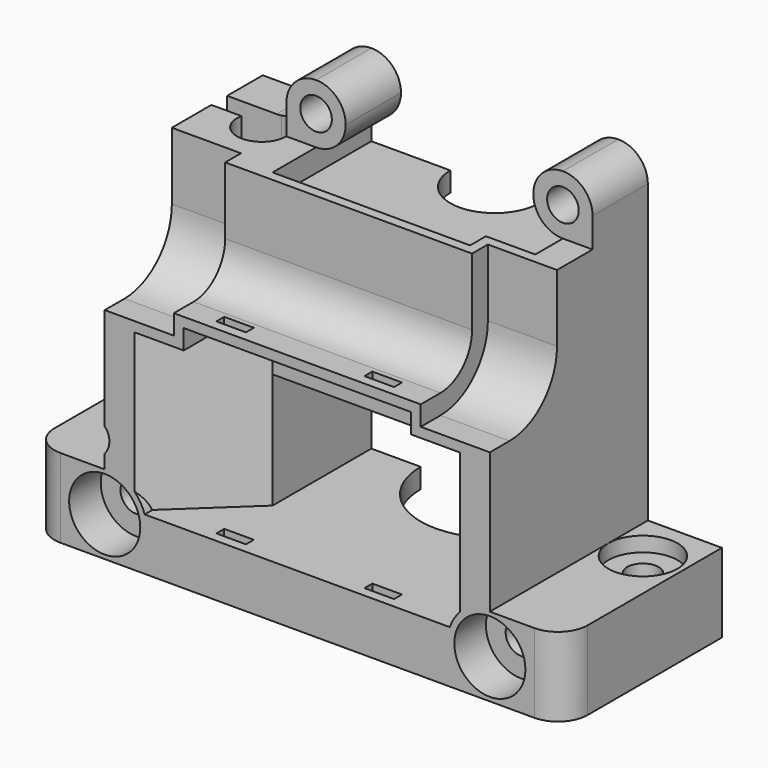
from build123d import *

# Parameters (mm, degrees)
BOX004_W                    = 3
BOX004_H                    = 1
BOX004_DEPTH                = 20
BOX003_W                    = 3
BOX003_H                    = 1
BOX003_DEPTH                = 20
CYLINDER005_R               = 1.6
CYLINDER005_DEPTH           = 20
CYLINDER007_R               = 2.5
CYLINDER007_DEPTH           = 40
PAD010_DEPTH                = 12.5
PAD010_DEPTH_BACK           = 12.5
PAD011_DEPTH                = 7
PAD009_DEPTH                = 7
CYLINDER009_R               = 2
CYLINDER009_DEPTH           = 40
CYLINDER009_ROLL_ANGLE      = 150
CYLINDER009_PITCH_ANGLE     = 80
CYLINDER009_PLACEMENT_ANGLE = -90
BOX002_W                    = 10
BOX002_H                    = 2
BOX002_DEPTH                = 40
BOX001_W                    = 5.5
BOX001_H                    = 40
BOX001_DEPTH                = 2
BOX001_ROLL_ANGLE           = -5.850586
BOX001_PITCH_ANGLE          = -4.812098
BOX001_PLACEMENT_ANGLE      = 31.614697
FILLET002_R                 = 3
CYLINDER010_R               = 3.6
CYLINDER010_DEPTH           = 4
CYLINDER011_R               = 3.6
CYLINDER011_DEPTH           = 4
CYLINDER003_R               = 1.6
CYLINDER003_DEPTH           = 20
CYLINDER008_R               = 3.5
CYLINDER008_DEPTH           = 1.5
CYLINDER_R                  = 1.6
CYLINDER_DEPTH              = 8
BOX_W                       = 7.5
BOX_H                       = 20
BOX_DEPTH                   = 8
FILLET001_R                 = 3
PAD006_DEPTH                = 11.5
PAD006_DEPTH_BACK           = 11.5
PAD007_DEPTH                = 8
PAD008_DEPTH                = 8
CYLINDER012_W               = 4.25
CYLINDER012_H               = 5
CYLINDER012_ANGLE           = 90
CYLINDER013_W               = 4.25
CYLINDER013_H               = 5
CYLINDER013_ANGLE           = 90
PAD_DEPTH                   = 35
PAD001_DEPTH                = 2
PAD002_DEPTH                = 2
PAD003_DEPTH                = 2
POCKET_DEPTH                = 29.701
SKETCH007_W                 = 6
SKETCH007_H                 = 6
SKETCH007_R                 = 1.6
PAD005_DEPTH                = 7
FILLET_R                    = 2.99


with BuildPart() as fanshroudclip2:
    # Box004 → Box004 (new body)
    with BuildSketch(Plane(origin=(-9, 18, 4.3), x_dir=(1, 0, 0), z_dir=(0, 0, 1))):
        with Locations((1.5, 0.5)):
            Rectangle(BOX004_W, BOX004_H)
    extrude(amount=BOX004_DEPTH)


with BuildPart() as fanshroudclipfusion:
    # Box003 → Box003 (new body)
    with BuildSketch(Plane(origin=(6, 18, 4.3), x_dir=(1, 0, 0), z_dir=(0, 0, 1))):
        with Locations((1.5, 0.5)):
            Rectangle(BOX003_W, BOX003_H)
    extrude(amount=BOX003_DEPTH)

    # Fusion003: union FanShroudClip2
    add(fanshroudclip2.part)


with BuildPart() as obj1:
    # Cylinder005 → Cylinder005 (new body)
    with BuildSketch(Plane(origin=(-19.5, 0, 4), x_dir=(1, 0, 0), z_dir=(0, 1, 0))):
        Circle(CYLINDER005_R)
    extrude(amount=CYLINDER005_DEPTH)


with BuildPart() as obj2:
    # Cylinder007 → Cylinder007 (new body)
    with BuildSketch(Plane(origin=(-14, 7, 0), x_dir=(1, 0, 0), z_dir=(0, 0, 1))):
        Circle(CYLINDER007_R)
    extrude(amount=CYLINDER007_DEPTH)


with BuildPart() as rodcutbody:
    # Sketch012 → Pad010 (new body, two sides)
    with BuildSketch(Plane.YZ) as pad010_sk:
        with BuildLine():
            Line((0, 0), (-6.5, 0))
            Line((-6.5, 0), (-6.5, -6.8))
            ThreePointArc((-6.5, -6.8), (-5.328427, -9.628427), (-2.5, -10.8))
            Line((0, -10.8), (-2.5, -10.8))
            Line((0, 0), (0, -10.8))
        make_face()
    extrude(amount=PAD010_DEPTH)
    extrude(pad010_sk.sketch, amount=-PAD010_DEPTH_BACK)

    # Sketch011 (on DatumPlane) → Pad011 (join)
    with BuildSketch(Plane.YZ.offset(12.5)):
        with BuildLine():
            ThreePointArc((-8.5, -6.8), (-6.742641, -11.042641), (-2.5, -12.8))
            Line((-2.5, -12.8), (0, -12.8))
            Line((0, 0), (0, -12.8))
            Line((-8.5, 0), (0, 0))
            Line((-8.5, -6.8), (-8.5, 0))
        make_face()
    extrude(amount=PAD011_DEPTH)

    # Sketch013 (on DatumPlane) → Pad009 (join)
    with BuildSketch(Plane.YZ.offset(-12.5)):
        with BuildLine():
            ThreePointArc((-8.5, -6.8), (-6.742641, -11.042641), (-2.5, -12.8))
            Line((-2.5, -12.8), (0, -12.8))
            Line((0, 0), (0, -12.8))
            Line((-8.5, 0), (0, 0))
            Line((-8.5, -6.8), (-8.5, 0))
        make_face()
    extrude(amount=-PAD009_DEPTH)


with BuildPart() as rodcutbody_1:
    # Body002 placement: moved
    add(rodcutbody.part.moved(Location((0, 20, 35))))


with BuildPart() as obj3:
    # Cylinder009 → Cylinder009 (new body)
    with BuildSketch(Plane.XY):
        Circle(CYLINDER009_R)
    extrude(amount=CYLINDER009_DEPTH)


with BuildPart() as obj3_1:
    # Cylinder009 roll: moved
    add(obj3.part.rotate(Axis((0, 0, 0), (1, 0, 0)), CYLINDER009_ROLL_ANGLE))


with BuildPart() as obj3_2:
    # Cylinder009 pitch: moved
    add(obj3_1.part.rotate(Axis((0, 0, 0), (0, 1, 0)), CYLINDER009_PITCH_ANGLE))


with BuildPart() as obj3_3:
    # Cylinder009 placement: moved
    add(obj3_2.part.moved(Location((-13.444286, 6.518816, 12.850557))).rotate(Axis((-13.444286, 6.518816, 12.850557), (0, 0, 1)), CYLINDER009_PLACEMENT_ANGLE))


with BuildPart() as obj4:
    # Box002 → Box002 (new body)
    with BuildSketch(Plane(origin=(-24, 4.5, 10), x_dir=(1, 0, 0), z_dir=(0, 0, 1))):
        with Locations((5, 1)):
            Rectangle(BOX002_W, BOX002_H)
    extrude(amount=BOX002_DEPTH)


with BuildPart() as fanwirecutfillet:
    # Box001 → Box001 (new body)
    with BuildSketch(Plane.XY):
        with Locations((2.75, 20)):
            Rectangle(BOX001_W, BOX001_H)
    extrude(amount=BOX001_DEPTH)


with BuildPart() as fanwirecutfillet_1:
    # Box001 roll: moved
    add(fanwirecutfillet.part.rotate(Axis((0, 0, 0), (1, 0, 0)), BOX001_ROLL_ANGLE))


with BuildPart() as fanwirecutfillet_2:
    # Box001 pitch: moved
    add(fanwirecutfillet_1.part.rotate(Axis((0, 0, 0), (0, 1, 0)), BOX001_PITCH_ANGLE))


with BuildPart() as fanwirecutfillet_3:
    # Box001 placement: moved
    add(fanwirecutfillet_2.part.moved(Location((-18.143732, 3.458343, 9.881283))).rotate(Axis((-18.143732, 3.458343, 9.881283), (0, 0, 1)), BOX001_PLACEMENT_ANGLE))

    # Fillet002
    fillet002_edges = [fanwirecutfillet_3.edges().sort_by_distance(p)[0] for p in [
        (-18.268233, 3.501404, 10.872568),
    ]]
    fillet(fillet002_edges, radius=FILLET002_R)


with BuildPart() as obj5:
    # Cylinder010 → Cylinder010 (new body)
    with BuildSketch(Plane(origin=(19.5, 16, 4), x_dir=(1, 0, 0), z_dir=(0, 1, 0))):
        Circle(CYLINDER010_R)
    extrude(amount=CYLINDER010_DEPTH)


with BuildPart() as obj6:
    # Cylinder011 → Cylinder011 (new body)
    with BuildSketch(Plane(origin=(-19.5, 16, 4), x_dir=(1, 0, 0), z_dir=(0, 1, 0))):
        Circle(CYLINDER011_R)
    extrude(amount=CYLINDER011_DEPTH)


with BuildPart() as casecutsfusion1:
    # Cylinder003 → Cylinder003 (new body)
    with BuildSketch(Plane(origin=(19.5, 0, 4), x_dir=(1, 0, 0), z_dir=(0, 1, 0))):
        Circle(CYLINDER003_R)
    extrude(amount=CYLINDER003_DEPTH)

    # Fusion002: union obj1, obj2, RodCutBody, obj3, obj4, FanWireCutFillet, obj5, obj6
    add(obj1.part)
    add(obj2.part)
    add(rodcutbody_1.part)
    add(obj3_3.part)
    add(obj4.part)
    add(fanwirecutfillet_3.part)
    add(obj5.part)
    add(obj6.part)


with BuildPart() as obj7:
    # Cylinder008 → Cylinder008 (new body)
    with BuildSketch(Plane(origin=(5, 5, 6.5), x_dir=(1, 0, 0), z_dir=(0, 0, 1))):
        Circle(CYLINDER008_R)
    extrude(amount=CYLINDER008_DEPTH)


with BuildPart() as obj8:
    # Cylinder → Cylinder (new body)
    with BuildSketch(Plane(origin=(5, 5, 0), x_dir=(1, 0, 0), z_dir=(0, 0, 1))):
        Circle(CYLINDER_R)
    extrude(amount=CYLINDER_DEPTH)

    # Fusion: union obj7
    add(obj7.part)


with BuildPart() as rightclipcut:
    # Box → Box (new body)
    with BuildSketch(Plane(origin=(1.5, 0, 0), x_dir=(1, 0, 0), z_dir=(0, 0, 1))):
        with Locations((3.75, 10)):
            Rectangle(BOX_W, BOX_H)
    extrude(amount=BOX_DEPTH)

    # Fillet001
    fillet001_edges = [rightclipcut.edges().sort_by_distance(p)[0] for p in [
        (9, 20, 4),
    ]]
    fillet(fillet001_edges, radius=FILLET001_R)

    # Cut: cut obj8
    add(obj8.part, mode=Mode.SUBTRACT)


with BuildPart() as rightclipcut_1:
    # Cut placement: moved
    add(rightclipcut.part.moved(Location((18, 0, 0))))


with BuildPart() as leftclipcut:
    # Part__Mirroring: instance of RightClipCut
    add(rightclipcut_1.part.mirror(Plane(origin=(0, 0, 0), x_dir=(0, -1, 0), z_dir=(1, 0, 0))))


with BuildPart() as rodwallbody:
    # Sketch008 → Pad006 (new body, two sides)
    with BuildSketch(Plane.YZ) as pad006_sk:
        with BuildLine():
            Line((0, 0), (-7.5, 0))
            Line((-7.5, 0), (-7.5, -6.8))
            ThreePointArc((-7.5, -6.8), (-6.035534, -10.335534), (-2.5, -11.8))
            Line((0, -11.8), (-2.5, -11.8))
            Line((0, 0), (0, -11.8))
        make_face()
    extrude(amount=PAD006_DEPTH)
    extrude(pad006_sk.sketch, amount=-PAD006_DEPTH_BACK)

    # Sketch009 (on DatumPlane) → Pad007 (join)
    with BuildSketch(Plane.YZ.offset(11.5)):
        with BuildLine():
            ThreePointArc((-9.5, -6.8), (-7.449747, -11.749747), (-2.5, -13.8))
            Line((-2.5, -13.8), (0, -13.8))
            Line((0, 0), (0, -13.8))
            Line((-9.5, 0), (0, 0))
            Line((-9.5, -6.8), (-9.5, 0))
        make_face()
    extrude(amount=PAD007_DEPTH)

    # Sketch010 (on DatumPlane) → Pad008 (join)
    with BuildSketch(Plane.YZ.offset(-11.5)):
        with BuildLine():
            ThreePointArc((-9.5, -6.8), (-7.449747, -11.749747), (-2.5, -13.8))
            Line((-2.5, -13.8), (0, -13.8))
            Line((0, 0), (0, -13.8))
            Line((-9.5, 0), (0, 0))
            Line((-9.5, -6.8), (-9.5, 0))
        make_face()
    extrude(amount=-PAD008_DEPTH)


with BuildPart() as rodwallbody_1:
    # Body001 placement: moved
    add(rodwallbody.part.moved(Location((0, 20, 35))))


with BuildPart() as obj9:
    # Cylinder012 → Cylinder012 (revolve)
    with BuildSketch(Plane(origin=(19.5, 15, 4), x_dir=(-1, 0, 0), z_dir=(0, 0, -1))):
        with Locations((2.125, 2.5)):
            Rectangle(CYLINDER012_W, CYLINDER012_H)
    revolve(axis=Axis((19.5, 15, 4), (0, 1, 0)), revolution_arc=CYLINDER012_ANGLE)


with BuildPart() as obj10:
    # Cylinder013 → Cylinder013 (revolve)
    with BuildSketch(Plane(origin=(-19.5, 15, 4), x_dir=(0, 0, 1), z_dir=(-1, 0, 0))):
        with Locations((2.125, 2.5)):
            Rectangle(CYLINDER013_W, CYLINDER013_H)
    revolve(axis=Axis((-19.5, 15, 4), (0, 1, 0)), revolution_arc=CYLINDER013_ANGLE)


with BuildPart() as casecuts2:
    # Sketch → Pad (new body)
    with BuildSketch(Plane.XY):
        Polygon((-12.5, 0), (-15.5, 0), (-23.5, 0), (-23.5, 20), (-15.5, 20), (15.5, 20), (15.5, 0), (12.5, 0), (12.5, 12.5), (-12.5, 12.5), align=None)
    extrude(amount=PAD_DEPTH)

    # Sketch001 (on DatumPlane) → Pad001 (join)
    with BuildSketch(Plane.XY.offset(3.3)):
        with BuildLine():
            ThreePointArc((7.5, 0), (0, 7.5), (-7.5, 0))
            Line((-7.5, 0), (-12.5, 0))
            Line((-12.5, 0), (-12.5, 12.5))
            Line((-12.5, 12.5), (12.5, 12.5))
            Line((12.5, 12.5), (12.5, 0))
            Line((12.5, 0), (7.5, 0))
        make_face()
    extrude(amount=PAD001_DEPTH)

    # Sketch002 (on DatumPlane) → Pad002 (join)
    with BuildSketch(Plane.XY.offset(17)):
        with BuildLine():
            ThreePointArc((7.5, 0), (0, 7.5), (-7.5, 0))
            Line((-7.5, 0), (-12.5, 0))
            Line((-12.5, 0), (-12.5, 12.5))
            Line((-12.5, 12.5), (12.5, 12.5))
            Line((12.5, 12.5), (12.5, 0))
            Line((12.5, 0), (7.5, 0))
        make_face()
    extrude(amount=PAD002_DEPTH)

    # Sketch003 (on DatumPlane) → Pad003 (join)
    with BuildSketch(Plane.XY.offset(30.7)):
        with BuildLine():
            ThreePointArc((4.5, 0), (0, 4.5), (-4.5, 0))
            Line((-4.5, 0), (-12.5, 0))
            Line((-12.5, 0), (-12.5, 12.5))
            Line((-12.5, 12.5), (12.5, 12.5))
            Line((12.5, 12.5), (12.5, 0))
            Line((12.5, 0), (4.5, 0))
        make_face()
    extrude(amount=PAD003_DEPTH)

    # Sketch004 (on DatumPlane) → Pocket (cut, through all)
    with BuildSketch(Plane.XY.offset(5.3)):
        Polygon((12.5, 12.5), (12.5, 20), (-20.5, 20), (-12.5, 12.5), align=None)
    extrude(amount=POCKET_DEPTH, mode=Mode.SUBTRACT)

    # Sketch007 → Pad005 (join)
    with BuildSketch(Plane.XZ):
        with Locations((-12.5, 38)):
            Rectangle(SKETCH007_W, SKETCH007_H)
        with Locations((-12.5, 38)):
            Circle(SKETCH007_R, mode=Mode.SUBTRACT)
        with Locations((12.5, 38)):
            Rectangle(SKETCH007_W, SKETCH007_H)
        with Locations((12.5, 38)):
            Circle(SKETCH007_R, mode=Mode.SUBTRACT)
    extrude(amount=-PAD005_DEPTH)

    # Fillet
    fillet_edges = [casecuts2.edges().sort_by_distance(p)[0] for p in [
        (15.5, 3.5, 41),
        (9.5, 3.5, 41),
        (9.5, 3.5, 35),
        (-9.5, 3.5, 35),
        (-9.5, 3.5, 41),
        (-15.5, 3.5, 41),
        (-15.5, 3.5, 35),
    ]]
    fillet(fillet_edges, radius=FILLET_R)


with BuildPart() as casecuts2_1:
    # Body placement: moved
    add(casecuts2.part.moved(Location((4, 0, 0))))

    # Fusion001: union RightClipCut, LeftClipCut, RodWallBody, obj9, obj10
    add(rightclipcut_1.part)
    add(leftclipcut.part)
    add(rodwallbody_1.part)
    add(obj9.part)
    add(obj10.part)

    # Cut001: cut CaseCutsFusion1
    add(casecutsfusion1.part, mode=Mode.SUBTRACT)

    # Cut002: cut FanShroudClipFusion
    add(fanshroudclipfusion.part, mode=Mode.SUBTRACT)


with BuildPart() as casecuts2_mirror_refined:
    # Part__Mirroring001: instance of CaseCuts2
    add(casecuts2_1.part.mirror(Plane(origin=(0, 0, 0), x_dir=(1, 0, 0), z_dir=(0, 1, 0))))


solid = casecuts2_mirror_refined.part
